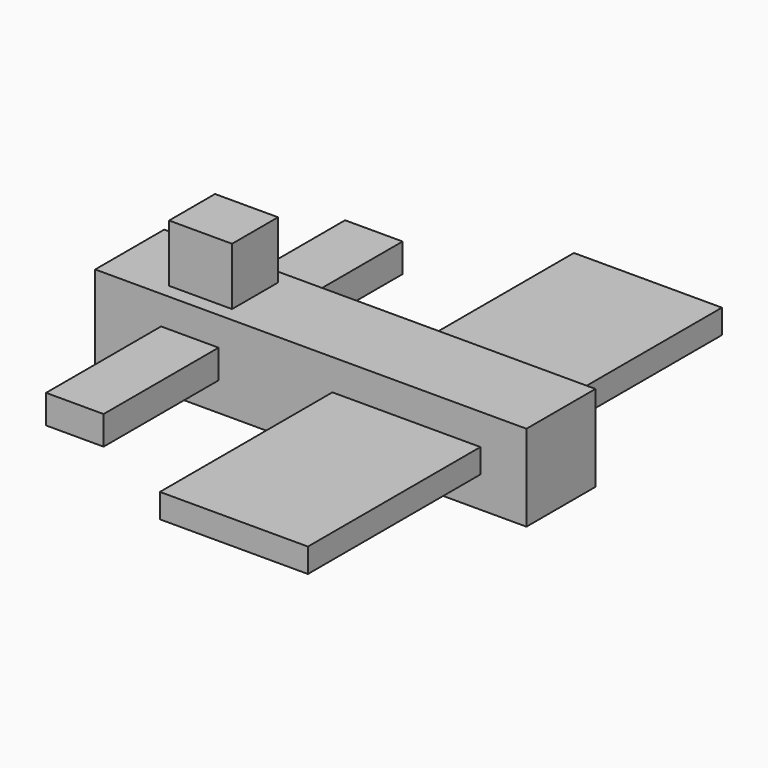
from build123d import *

# Parameters (mm, degrees)
F0_W     = 19.05
F0_H     = 1.905
F1_DEPTH = 3.81
F2_W     = 6.538586
F2_H     = 1.067244
F3_DEPTH = 9.525
F4_W     = 2.54
F4_H     = 1.27
F5_DEPTH = 6.35
F6_W     = 2.782095
F6_H     = 1.268995
F7_DEPTH = 2.54


with BuildPart() as f1:
    # F0 (on Top) → F1 (new body)
    with BuildSketch(Plane.XY):
        with Locations((-56.238926, 5.001349)):
            Rectangle(F0_W, F0_H)
    extrude(amount=F1_DEPTH)

    # F2 (on face) → F3 (join)
    with BuildSketch(Plane(origin=(0, 5.953849, 0), x_dir=(-1, 0, 0), z_dir=(0, 1, 0))):
        with Locations((52.016381, 1.905)):
            Rectangle(F2_W, F2_H)
    extrude(amount=F3_DEPTH)

    # F4 (on face) → F5 (join)
    with BuildSketch(Plane(origin=(0, 5.953849, 0), x_dir=(-1, 0, 0), z_dir=(0, 1, 0))):
        with Locations((61.58399, 1.905)):
            Rectangle(F4_W, F4_H)
    extrude(amount=F5_DEPTH)

    # F6 (on face) → F7 (join)
    with BuildSketch(Plane.XY.offset(3.81)):
        with Locations((-61.618646, 4.683346)):
            Rectangle(F6_W, F6_H)
    extrude(amount=F7_DEPTH)

    # F8: F1 across face


with BuildPart() as f1_1:
    add(f1.part)
    add(f1.part.mirror(Plane(origin=(-56.716231, 4.048849, 2.186695), x_dir=(1, 0, 0), z_dir=(0, -1, 0))))


solid = f1_1.part
